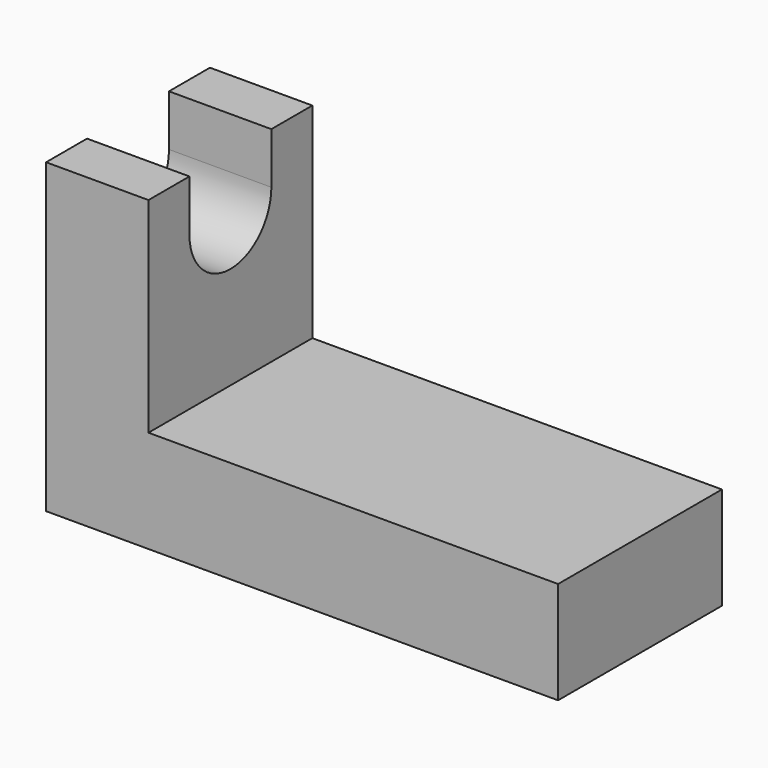
from build123d import *

# Parameters (mm, degrees)
F0_W     = 12.7
F0_H     = 25.4
F1_DEPTH = 25.4
F2_DEPTH = 25.4
F3_W     = 12.7
F3_H     = 6.35
F4_DEPTH = 25.4


with BuildPart() as f1:
    # F0 (on Front) → F1 (new body)
    with BuildSketch(Plane.XZ):
        Polygon((-37.512038, 12.7), (-37.512038, 0), (25.987962, 0), (25.987962, 12.7), (-24.812038, 12.7), align=None)
        with Locations((-31.162038, 25.4)):
            Rectangle(F0_W, F0_H)
    extrude(amount=F1_DEPTH)

    # F0 (on Front) → F2 (join)
    with BuildSketch(Plane.XZ):
        Polygon((-37.512038, 12.7), (-37.512038, 0), (25.987962, 0), (25.987962, 12.7), (-24.812038, 12.7), align=None)
        with Locations((-31.162038, 25.4)):
            Rectangle(F0_W, F0_H)
    extrude(amount=F2_DEPTH)

    # F3 (on face) → F4 (cut)
    with BuildSketch(Plane.YZ.offset(-24.812038)):
        with BuildLine():
            ThreePointArc((-19.05, 31.75), (-12.7, 25.4), (-6.35, 31.75))
            Line((-6.35, 31.75), (-19.05, 31.75))
        make_face()
        with Locations((-12.7, 34.925)):
            Rectangle(F3_W, F3_H)
    extrude(amount=-F4_DEPTH, mode=Mode.SUBTRACT)


solid = f1.part
